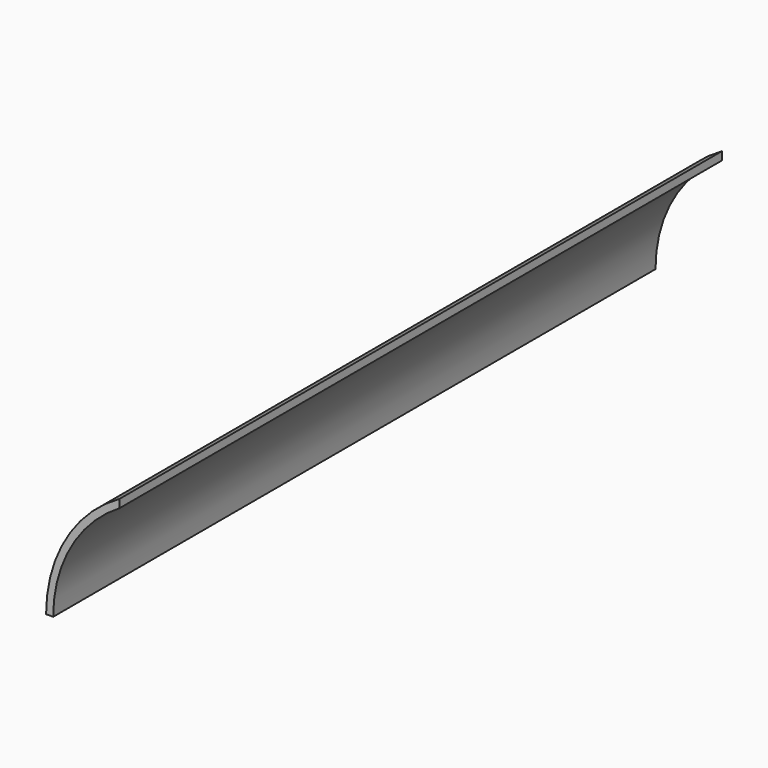
from build123d import *

# Parameters (mm, degrees)
F1_DEPTH      = 500
F1_DEPTH_BACK = 200


with BuildPart() as f1:
    # F0 (on Front) → F1 (new body, two sides)
    with BuildSketch(Plane.XZ) as f1_sk:
        with BuildLine():
            Line((0, -7.627958), (0, 0))
            ThreePointArc((0, 0), (-50.0041, -49.044954), (-68.350463, -116.641022))
            Line((-68.350463, -116.641022), (-61.750463, -116.641022))
            ThreePointArc((-61.750463, -116.641022), (-45.240553, -53.997252), (0, -7.627958))
        make_face()
    extrude(amount=F1_DEPTH)
    extrude(f1_sk.sketch, amount=-F1_DEPTH_BACK)


solid = f1.part
